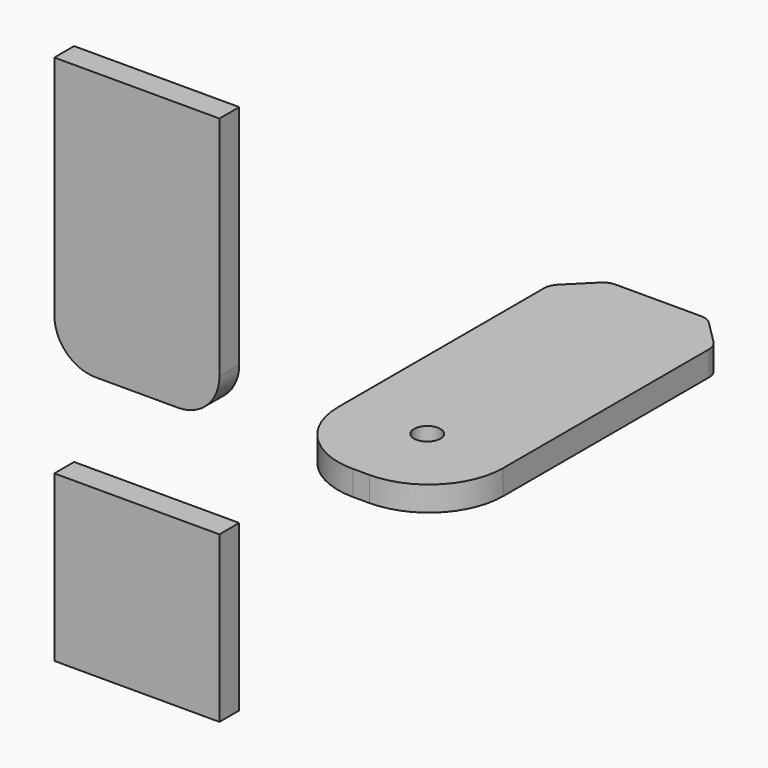
from build123d import *

# Parameters (mm, degrees)
F0_W     = 20
F0_H     = 45
F0_R     = 1.6
F1_DEPTH = 3
F2_R     = 9
F3_SIZE  = 4
F4_R     = 2
F5_W     = 20
F5_H     = 20
F6_DEPTH = 3
F5_H_2   = 32.4758281931
F7_R     = 5


with BuildPart() as f1:
    # F0 (on Top) → F1 (new body)
    with BuildSketch(Plane.XY):
        Rectangle(F0_W, F0_H)
        with Locations((0, -12.5)):
            Circle(F0_R, mode=Mode.SUBTRACT)
    extrude(amount=F1_DEPTH)

    # F2
    f2_edges = [f1.edges().sort_by_distance(p)[0] for p in [
        (10, -22.5, 1.5),
        (-10, -22.5, 1.5),
    ]]
    fillet(f2_edges, radius=F2_R)

    # F3
    f3_edges = [f1.edges().sort_by_distance(p)[0] for p in [
        (-10, 22.5, 1.5),
        (10, 22.5, 1.5),
    ]]
    chamfer(f3_edges, length=F3_SIZE)

    # F4
    f4_edges = [f1.edges().sort_by_distance(p)[0] for p in [
        (-6, 22.5, 1.5),
        (6, 22.5, 1.5),
        (10, 18.5, 1.5),
        (-10, 18.5, 1.5),
    ]]
    fillet(f4_edges, radius=F4_R)


with BuildPart() as f6:
    # F5 (on Front) → F6 (new body)
    with BuildSketch(Plane.XZ):
        with Locations((-42.7732223272, -32.2486439347)):
            Rectangle(F5_W, F5_H)
    extrude(amount=F6_DEPTH)


with BuildPart() as f6b:
    # F5 (on Front) → F6, piece 2 (new body)
    with BuildSketch(Plane.XZ):
        with Locations((-42.7732223272, 5.8636930771)):
            Rectangle(F5_W, F5_H_2)
    extrude(amount=F6_DEPTH)

    # F7
    f7_edges = [f6b.edges().sort_by_distance(p)[0] for p in [
        (-32.773222, -1.5, -10.374221),
        (-52.773222, -1.5, -10.374221),
    ]]
    fillet(f7_edges, radius=F7_R)


solid = Compound([f1.part, f6.part, f6b.part])
